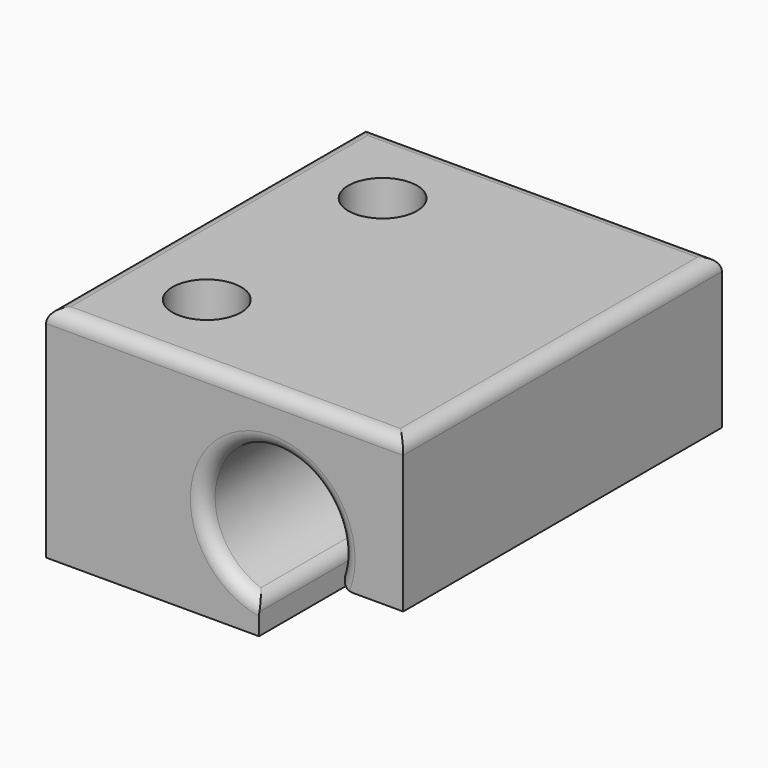
from build123d import *

# Parameters (mm, degrees)
F0_W     = 26
F0_H     = 29
F0_R     = 2.5
F1_DEPTH = 16
F2_R     = 5
F3_DEPTH = 60
F4_W     = 10.5
F4_H     = 5
F5_DEPTH = 60
F6_R     = 1


with BuildPart() as f1:
    # F0 (on Top) → F1 (new body)
    with BuildSketch(Plane.XY):
        Rectangle(F0_W, F0_H)
        with Locations((-6.5, -8)):
            Circle(F0_R, mode=Mode.SUBTRACT)
        with Locations((-6.5, 8)):
            Circle(F0_R, mode=Mode.SUBTRACT)
    extrude(amount=F1_DEPTH)

    # F2 (on face) → F3 (cut)
    with BuildSketch(Plane.XZ.offset(14.5)):
        with Locations((3.5, 7.2)):
            Circle(F2_R)
    extrude(amount=-F3_DEPTH, mode=Mode.SUBTRACT)

    # F4 (on face) → F5 (cut)
    with BuildSketch(Plane.XZ.offset(14.5)):
        with Locations((7.75, 2.5)):
            Rectangle(F4_W, F4_H)
    extrude(amount=-F5_DEPTH, mode=Mode.SUBTRACT)

    # F6
    f6_edges = [f1.edges().sort_by_distance(p)[0] for p in [
        (0, -14.5, 16),
        (-13, 0, 16),
        (13, 0, 16),
        (0, 14.5, 16),
        (7.989989, 0, 5),
        (2.5, 0, 2.301021),
        (1.29407, -14.5, 11.687078),
        (1.29407, 14.5, 11.687078),
    ]]
    fillet(f6_edges, radius=F6_R)


solid = f1.part
